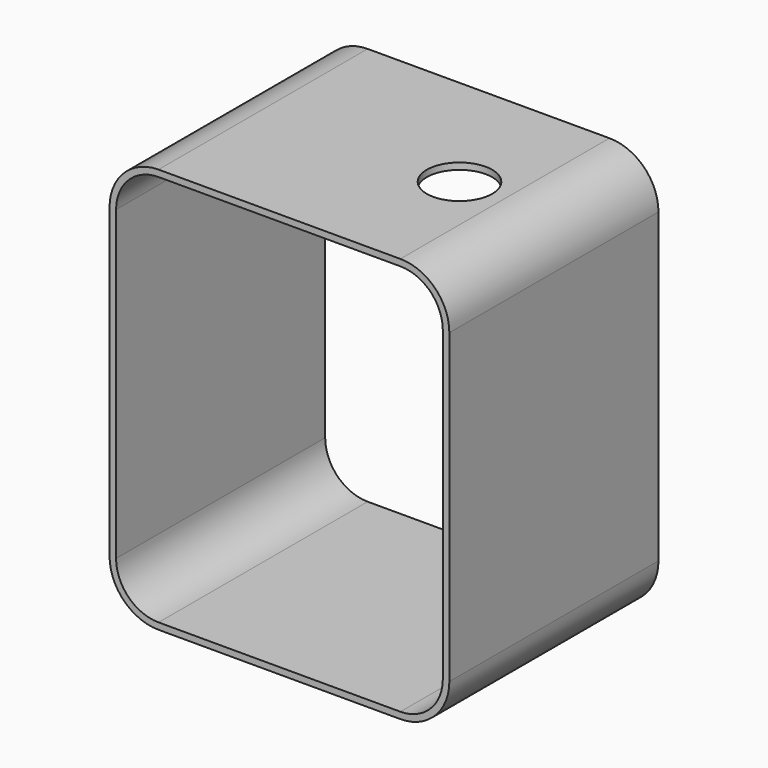
from build123d import *

# Parameters (mm, degrees)
F1_DEPTH = 400
F3_DEPTH = 25


with BuildPart() as f1:
    # F0 (on Front) → F1 (new body)
    with BuildSketch(Plane.XZ):
        with BuildLine():
            Line((260, -235), (260, 235))
            ThreePointArc((260, 235), (238.033009, 288.033009), (185, 310))
            Line((185, 310), (-185, 310))
            ThreePointArc((-185, 310), (-238.033009, 288.033009), (-260, 235))
            Line((-260, 235), (-260, -235))
            ThreePointArc((-260, -235), (-238.033009, -288.033009), (-185, -310))
            Line((-185, -310), (185, -310))
            ThreePointArc((185, -310), (238.033009, -288.033009), (260, -235))
        make_face()
        with BuildLine():
            ThreePointArc((-250, 235), (-230.961941, 280.961941), (-185, 300))
            Line((-185, 300), (185, 300))
            ThreePointArc((185, 300), (230.961941, 280.961941), (250, 235))
            Line((250, 235), (250, -235))
            ThreePointArc((250, -235), (230.961941, -280.961941), (185, -300))
            Line((185, -300), (-185, -300))
            ThreePointArc((-185, -300), (-230.961941, -280.961941), (-250, -235))
            Line((-250, -235), (-250, 235))
        make_face(mode=Mode.SUBTRACT)
    extrude(amount=F1_DEPTH)

    # F2 (on face) → F3 (cut)
    with BuildSketch(Plane.XY.offset(310)):
        with BuildLine():
            ThreePointArc((165.524478, -200), (80.169139, -164.644661), (115.524478, -250))
            ThreePointArc((115.524478, -250), (150.879817, -235.355339), (165.524478, -200))
        make_face()
    extrude(amount=-F3_DEPTH, mode=Mode.SUBTRACT)


solid = f1.part
